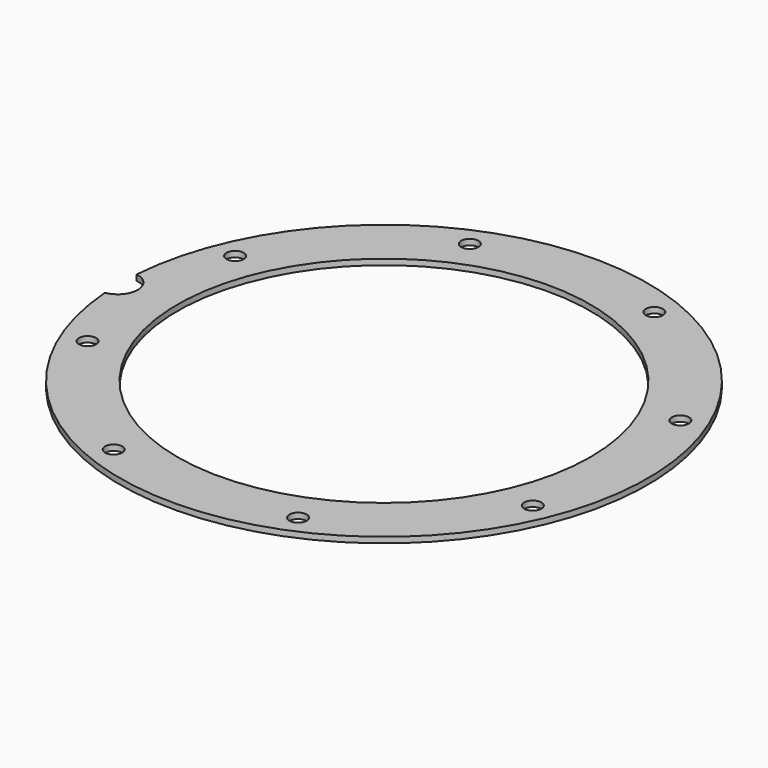
from build123d import *

# Parameters (mm, degrees)
BOX409_W                     = 6
BOX409_H                     = 8
BOX409_DEPTH                 = 2
BOX409_PLACEMENT_ANGLE       = 45
BOX411_W                     = 6
BOX411_H                     = 8
BOX411_DEPTH                 = 2
BOX402_W                     = 6
BOX402_H                     = 8
BOX402_DEPTH                 = 2
BOX414_W                     = 6
BOX414_H                     = 8
BOX414_DEPTH                 = 2
BOX414_PLACEMENT_ANGLE       = 135
BOX412_W                     = 6
BOX412_H                     = 8
BOX412_DEPTH                 = 2
BOX416_W                     = 6
BOX416_H                     = 8
BOX416_DEPTH                 = 2
BOX416_PLACEMENT_ANGLE       = 225
BOX405_W                     = 6
BOX405_H                     = 8
BOX405_DEPTH                 = 2
BOX415_W                     = 6
BOX415_H                     = 8
BOX415_DEPTH                 = 2
BOX415_PLACEMENT_ANGLE       = 45
COMPOUND866_PLACEMENT_ANGLE  = 22.5
CYLINDER1100_R               = 1.5
CYLINDER1100_DEPTH           = 12
CYLINDER1100_PLACEMENT_ANGLE = 45
CYLINDER1108_R               = 1.5
CYLINDER1108_DEPTH           = 12
CYLINDER1106_R               = 1.5
CYLINDER1106_DEPTH           = 12
CYLINDER1106_PLACEMENT_ANGLE = 135
CYLINDER1105_R               = 1.5
CYLINDER1105_DEPTH           = 12
CYLINDER1107_R               = 1.5
CYLINDER1107_DEPTH           = 12
CYLINDER1107_PLACEMENT_ANGLE = 225
CYLINDER1104_R               = 1.5
CYLINDER1104_DEPTH           = 12
CYLINDER1099_R               = 1.5
CYLINDER1099_DEPTH           = 12
CYLINDER1099_PLACEMENT_ANGLE = 45
CYLINDER1102_R               = 1.5
CYLINDER1102_DEPTH           = 12
COMPOUND867_PLACEMENT_ANGLE  = 22.5
CYLINDER1097_R               = 3.5
CYLINDER1097_DEPTH           = 20
TUBE099_R                    = 46
TUBE099_R_2                  = 36
TUBE099_DEPTH                = 1


with BuildPart() as krychle409:
    # Box409 → Box409 (new body)
    with BuildSketch(Plane.XY):
        with Locations((3, 4)):
            Rectangle(BOX409_W, BOX409_H)
    extrude(amount=BOX409_DEPTH)


with BuildPart() as krychle409_1:
    # Box409 placement: moved
    add(krychle409.part.moved(Location((30.405592, -34.648232, 33))).rotate(Axis((30.405592, -34.648232, 33), (0, 0, 1)), BOX409_PLACEMENT_ANGLE))


with BuildPart() as krychle411:
    # Box411 → Box411 (new body)
    with BuildSketch(Plane(origin=(46, -3, 33), x_dir=(0, 1, 0), z_dir=(0, 0, 1))):
        with Locations((3, 4)):
            Rectangle(BOX411_W, BOX411_H)
    extrude(amount=BOX411_DEPTH)


with BuildPart() as krychle402:
    # Box402 → Box402 (new body)
    with BuildSketch(Plane(origin=(-3, -46, 33), x_dir=(1, 0, 0), z_dir=(0, 0, 1))):
        with Locations((3, 4)):
            Rectangle(BOX402_W, BOX402_H)
    extrude(amount=BOX402_DEPTH)


with BuildPart() as krychle414:
    # Box414 → Box414 (new body)
    with BuildSketch(Plane.XY):
        with Locations((3, 4)):
            Rectangle(BOX414_W, BOX414_H)
    extrude(amount=BOX414_DEPTH)


with BuildPart() as krychle414_1:
    # Box414 placement: moved
    add(krychle414.part.moved(Location((34.648232, 30.405592, 33))).rotate(Axis((34.648232, 30.405592, 33), (0, 0, 1)), BOX414_PLACEMENT_ANGLE))


with BuildPart() as krychle412:
    # Box412 → Box412 (new body)
    with BuildSketch(Plane(origin=(3, 46, 33), x_dir=(-1, 0, 0), z_dir=(0, 0, 1))):
        with Locations((3, 4)):
            Rectangle(BOX412_W, BOX412_H)
    extrude(amount=BOX412_DEPTH)


with BuildPart() as krychle416:
    # Box416 → Box416 (new body)
    with BuildSketch(Plane.XY):
        with Locations((3, 4)):
            Rectangle(BOX416_W, BOX416_H)
    extrude(amount=BOX416_DEPTH)


with BuildPart() as krychle416_1:
    # Box416 placement: moved
    add(krychle416.part.moved(Location((-30.405592, 34.648232, 33))).rotate(Axis((-30.405592, 34.648232, 33), (0, 0, 1)), BOX416_PLACEMENT_ANGLE))


with BuildPart() as krychle405:
    # Box405 → Box405 (new body)
    with BuildSketch(Plane(origin=(-46, 3, 33), x_dir=(0, -1, 0), z_dir=(0, 0, 1))):
        with Locations((3, 4)):
            Rectangle(BOX405_W, BOX405_H)
    extrude(amount=BOX405_DEPTH)


with BuildPart() as compound866:
    # Box415 → Box415 (new body)
    with BuildSketch(Plane.XY):
        with Locations((3, 4)):
            Rectangle(BOX415_W, BOX415_H)
    extrude(amount=BOX415_DEPTH)


with BuildPart() as compound866_1:
    # Box415 placement: moved
    add(compound866.part.moved(Location((-34.648232, -30.405592, 33))).rotate(Axis((-34.648232, -30.405592, 33), (0, 0, -1)), BOX415_PLACEMENT_ANGLE))

    # Compound866: union Krychle409, Krychle411, Krychle402, Krychle414, Krychle412, Krychle416, Krychle405
    add(krychle409_1.part)
    add(krychle411.part)
    add(krychle402.part)
    add(krychle414_1.part)
    add(krychle412.part)
    add(krychle416_1.part)
    add(krychle405.part)


with BuildPart() as compound866_2:
    # Compound866 placement: moved
    add(compound866_1.part.moved(Location((0, 0, 7))).rotate(Axis((0, 0, 7), (0, 0, 1)), COMPOUND866_PLACEMENT_ANGLE))


with BuildPart() as obj1:
    # Cylinder1100 → Cylinder1100 (new body)
    with BuildSketch(Plane.XY):
        Circle(CYLINDER1100_R)
    extrude(amount=CYLINDER1100_DEPTH)


with BuildPart() as obj1_1:
    # Cylinder1100 placement: moved
    add(obj1.part.moved(Location((29.698485, -29.698485, 33.5))).rotate(Axis((29.698485, -29.698485, 33.5), (0, 0, 1)), CYLINDER1100_PLACEMENT_ANGLE))


with BuildPart() as obj2:
    # Cylinder1108 → Cylinder1108 (new body)
    with BuildSketch(Plane(origin=(42, 0, 33.5), x_dir=(0, 1, 0), z_dir=(0, 0, 1))):
        Circle(CYLINDER1108_R)
    extrude(amount=CYLINDER1108_DEPTH)


with BuildPart() as obj3:
    # Cylinder1106 → Cylinder1106 (new body)
    with BuildSketch(Plane.XY):
        Circle(CYLINDER1106_R)
    extrude(amount=CYLINDER1106_DEPTH)


with BuildPart() as obj3_1:
    # Cylinder1106 placement: moved
    add(obj3.part.moved(Location((29.698485, 29.698485, 33.5))).rotate(Axis((29.698485, 29.698485, 33.5), (0, 0, 1)), CYLINDER1106_PLACEMENT_ANGLE))


with BuildPart() as obj4:
    # Cylinder1105 → Cylinder1105 (new body)
    with BuildSketch(Plane(origin=(0, 42, 33.5), x_dir=(-1, 0, 0), z_dir=(0, 0, 1))):
        Circle(CYLINDER1105_R)
    extrude(amount=CYLINDER1105_DEPTH)


with BuildPart() as obj5:
    # Cylinder1107 → Cylinder1107 (new body)
    with BuildSketch(Plane.XY):
        Circle(CYLINDER1107_R)
    extrude(amount=CYLINDER1107_DEPTH)


with BuildPart() as obj5_1:
    # Cylinder1107 placement: moved
    add(obj5.part.moved(Location((-29.698485, 29.698485, 33.5))).rotate(Axis((-29.698485, 29.698485, 33.5), (0, 0, 1)), CYLINDER1107_PLACEMENT_ANGLE))


with BuildPart() as obj6:
    # Cylinder1104 → Cylinder1104 (new body)
    with BuildSketch(Plane(origin=(-42, 0, 33.5), x_dir=(0, -1, 0), z_dir=(0, 0, 1))):
        Circle(CYLINDER1104_R)
    extrude(amount=CYLINDER1104_DEPTH)


with BuildPart() as obj7:
    # Cylinder1099 → Cylinder1099 (new body)
    with BuildSketch(Plane.XY):
        Circle(CYLINDER1099_R)
    extrude(amount=CYLINDER1099_DEPTH)


with BuildPart() as obj7_1:
    # Cylinder1099 placement: moved
    add(obj7.part.moved(Location((-29.698485, -29.698485, 33.5))).rotate(Axis((-29.698485, -29.698485, 33.5), (0, 0, -1)), CYLINDER1099_PLACEMENT_ANGLE))


with BuildPart() as compound867:
    # Cylinder1102 → Cylinder1102 (new body)
    with BuildSketch(Plane(origin=(0, -42, 33.5), x_dir=(1, 0, 0), z_dir=(0, 0, 1))):
        Circle(CYLINDER1102_R)
    extrude(amount=CYLINDER1102_DEPTH)

    # Compound867: union obj1, obj2, obj3, obj4, obj5, obj6, obj7
    add(obj1_1.part)
    add(obj2.part)
    add(obj3_1.part)
    add(obj4.part)
    add(obj5_1.part)
    add(obj6.part)
    add(obj7_1.part)


with BuildPart() as compound867_1:
    # Compound867 placement: moved
    add(compound867.part.moved(Location((0, 0, 4))).rotate(Axis((0, 0, 4), (0, 0, 1)), COMPOUND867_PLACEMENT_ANGLE))


with BuildPart() as obj8:
    # Cylinder1097 → Cylinder1097 (new body)
    with BuildSketch(Plane(origin=(-46.4, 0, 34), x_dir=(1, 0, 0), z_dir=(0, 0, 1))):
        Circle(CYLINDER1097_R)
    extrude(amount=CYLINDER1097_DEPTH)


with BuildPart() as cut412:
    # Tube099 → Tube099 (new body)
    with BuildSketch(Plane.XY.offset(45)):
        Circle(TUBE099_R)
        Circle(TUBE099_R_2, mode=Mode.SUBTRACT)
    extrude(amount=TUBE099_DEPTH)

    # Cut414: cut obj8
    add(obj8.part, mode=Mode.SUBTRACT)

    # Cut415: cut Compound867
    add(compound867_1.part, mode=Mode.SUBTRACT)

    # Cut412: cut Compound866
    add(compound866_2.part, mode=Mode.SUBTRACT)


solid = cut412.part
